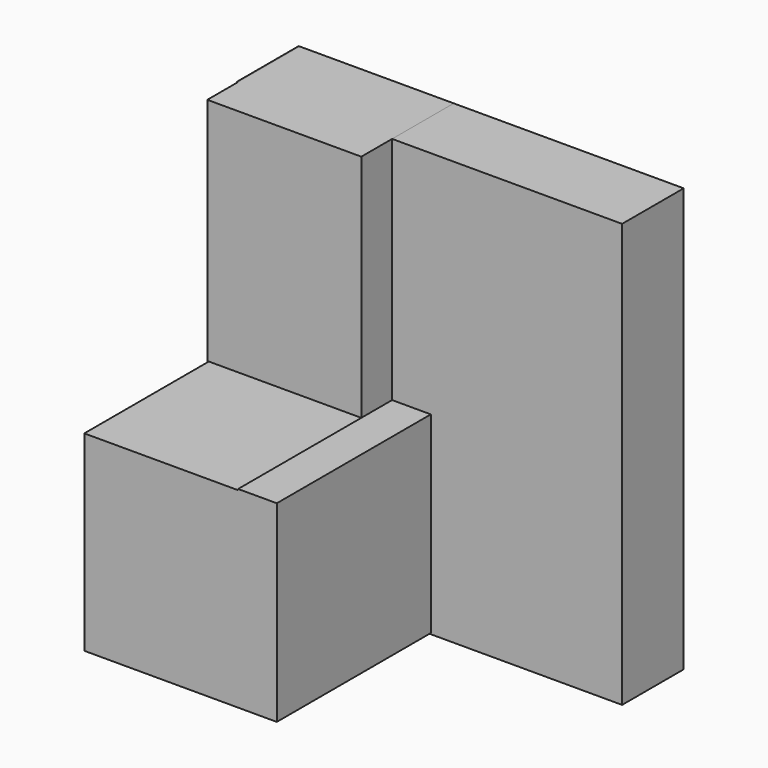
from build123d import *

# Parameters (mm, degrees)
F1_DEPTH = 88.9
F2_DEPTH = 38.1
F3_DEPTH = 25.4


with BuildPart() as f1:
    # F0 (on Front) → F1 (new body)
    with BuildSketch(Plane.XZ):
        Polygon((1.619642, -6.527692), (-11.143893, -6.527692), (-11.143893, -6.883733), (-61.880358, -6.883733), (-61.880358, -70.027692), (1.619642, -70.027692), align=None)
    extrude(amount=F1_DEPTH)


with BuildPart() as f2:
    # F0 (on Front) → F2 (new body)
    with BuildSketch(Plane.XZ):
        Polygon((-61.880358, -6.883733), (-61.880358, -6.527692), (-11.143893, -6.527692), (-11.143893, 69.316112), (-61.943893, 69.316112), (-61.943893, -6.883733), align=None)
    extrude(amount=F2_DEPTH)


with BuildPart() as f3:
    # F0 (on Front) → F3 (new body)
    with BuildSketch(Plane.XZ):
        Polygon((-11.143893, 69.316112), (-11.143893, -6.527692), (1.619642, -6.527692), (1.619642, -70.027692), (-61.880358, -70.027692), (-61.880358, -6.883733), (-61.943893, -6.883733), (-61.943893, 69.316112), (-62.278867, 69.316112), (-62.278867, -70.383888), (64.721133, -70.383888), (64.721133, 69.316112), align=None)
    extrude(amount=F3_DEPTH)


solid = Compound([f1.part, f2.part, f3.part])
